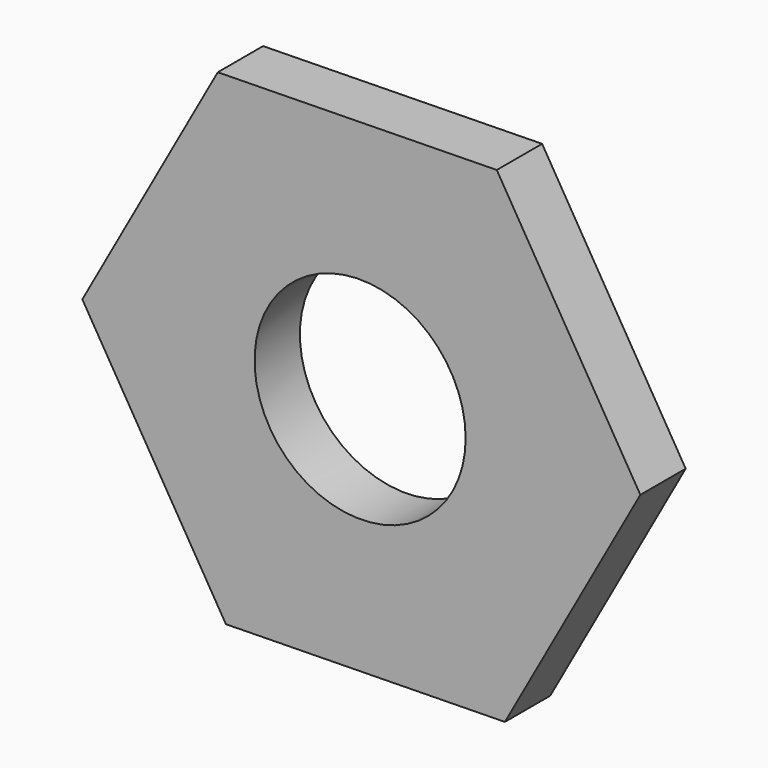
from build123d import *

# Parameters (mm, degrees)
F1_DEPTH = 4.699
F2_R     = 8.751731
F3_DEPTH = 50.8


with BuildPart() as f1:
    # F0 (on Front) → F1 (new body)
    with BuildSketch(Plane.XZ):
        Polygon((-6.852585, 17.974148), (4.379524, 38.206477), (-7.526131, 58.049933), (-30.663897, 57.661062), (-41.896007, 37.428733), (-29.990351, 17.585276), align=None)
    extrude(amount=F1_DEPTH)

    # F2 (on face) → F3 (cut)
    with BuildSketch(Plane.XZ.offset(4.699)):
        with Locations((-18.860195, 37.623174)):
            Circle(F2_R)
    extrude(amount=-F3_DEPTH, mode=Mode.SUBTRACT)


solid = f1.part
